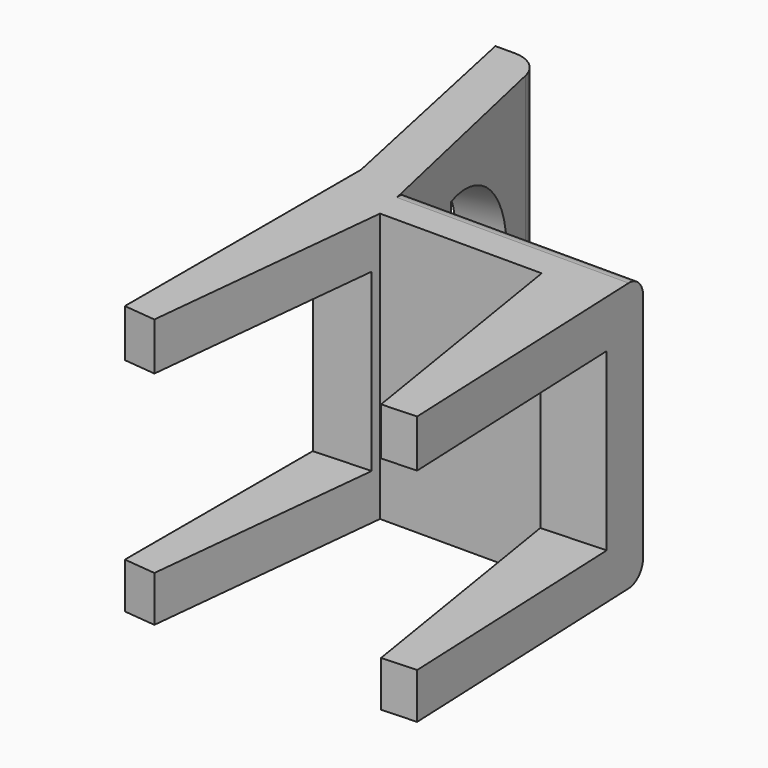
from build123d import *

# Parameters (mm, degrees)
F1_DEPTH = 70
F2_W     = 65.2701610255
F2_H     = 45.7058856264
F3_DEPTH = 127.5
F5_DEPTH = 41.3
F6_R     = 5
F7_R     = 8


with BuildPart() as f1:
    # F0 (on Top) → F1 (new body)
    with BuildSketch(Plane.XY):
        Polygon((-47.1203699708, 59.5582462847), (-58.6014762521, 59.5582462847), (-45.9271341588, 0), (-45.9271341588, -76.8745874723), (-37.5527814031, -77.7366533875), (-30.855467543, -12.6770474017), (11.2419202924, -12.6770474017), (21.7831026724, -78.1274641837), (30.8554805815, -77.7366533875), (27.5068189949, 0), (-33.725745976, 0), align=None)
    extrude(amount=F1_DEPTH)

    # F2 (on face) → F3 (cut)
    with BuildSketch(Plane(origin=(27.4558711207, 1.1827164786, 0), x_dir=(-0.0430370851, 0.9990734754, 0), z_dir=(0.9990734754, 0.0430370851, 0))):
        with Locations((-46.3574778998, 34.742649179)):
            Rectangle(F2_W, F2_H)
    extrude(amount=-F3_DEPTH, mode=Mode.SUBTRACT)

    # F4 (on face) → F5 (cut)
    with BuildSketch(Plane(origin=(-32.1020311258, -7.2197330046, 0), x_dir=(-0.2194189331, 0.9756307354, 0), z_dir=(0.9756307354, 0.2194189331, 0))):
        with BuildLine():
            Line((27.3875570842, 57.2867691517), (27.3875570842, 11.2720606849))
            ThreePointArc((27.3875570842, 11.2720606849), (53.1906745676, 34.2794149183), (27.3875570842, 57.2867691517))
        make_face()
    extrude(amount=-F5_DEPTH, mode=Mode.SUBTRACT)

    # F6
    f6_edges = [f1.edges().sort_by_distance(p)[0] for p in [
        (-3.109463, 0, 0),
        (-3.109463, 0, 70),
    ]]
    fillet(f6_edges, radius=F6_R)

    # F7
    f7_edges = [f1.edges().sort_by_distance(p)[0] for p in [
        (-47.12037, 59.558246, 35),
    ]]
    fillet(f7_edges, radius=F7_R)


solid = f1.part
